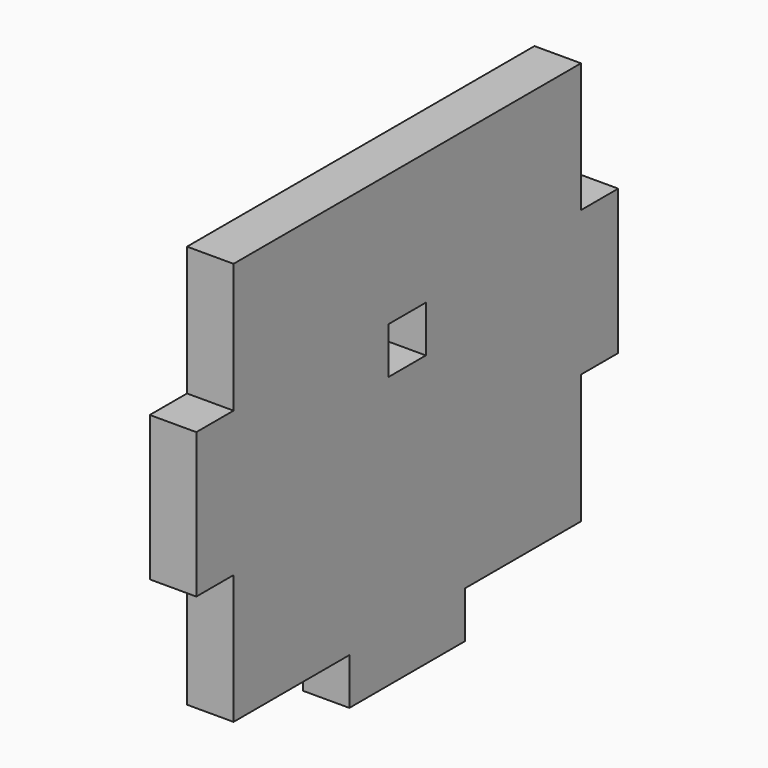
from build123d import *

# Parameters (mm, degrees)
F0_W     = 19.05
F0_H     = 19.05
F1_DEPTH = 19.05


with BuildPart() as f1:
    # F0 (on Right) → F1 (new body)
    with BuildSketch(Plane.YZ):
        Polygon((88.9, 82.55), (-88.9, 82.55), (-88.9, 29.633418), (-107.95, 29.633418), (-107.95, 0), (-107.95, -29.633418), (-88.9, -29.633418), (-88.9, -82.55), (-29.633418, -82.55), (-29.633418, -101.6), (0, -101.6), (29.633418, -101.6), (29.633418, -82.55), (88.9, -82.55), (88.9, -29.633418), (107.95, -29.633418), (107.95, 0), (107.95, 29.633418), (88.9, 29.633418), align=None)
        with Locations((0, 19.05)):
            Rectangle(F0_W, F0_H, mode=Mode.SUBTRACT)
    extrude(amount=F1_DEPTH)


solid = f1.part
